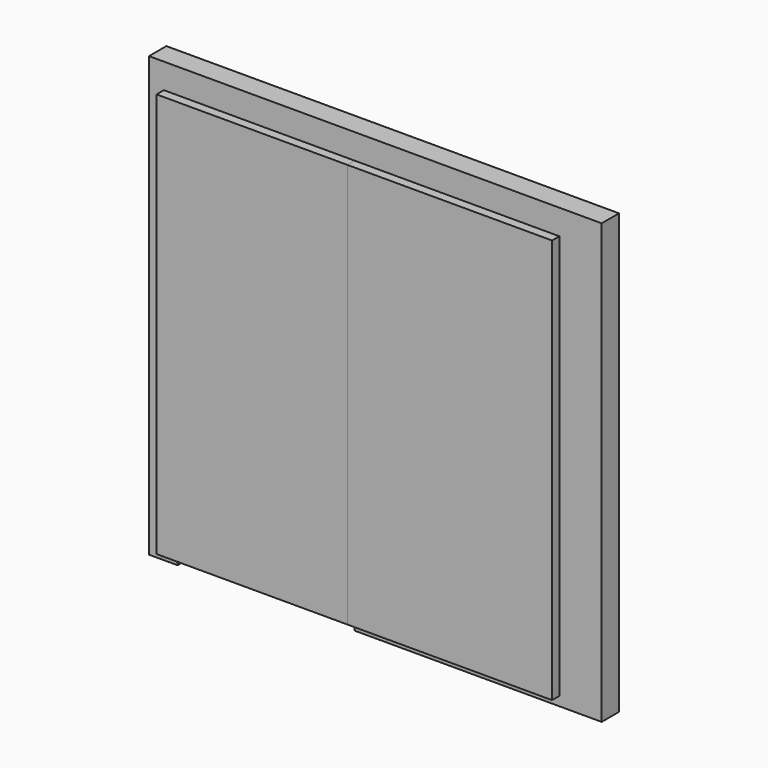
from build123d import *

# Parameters (mm, degrees)
F0_W     = 76.2
F0_H     = 127
F1_DEPTH = 120.65
F2_W     = 88.9
F2_H     = 2146.3
F2_W_2   = 177.8
F3_DEPTH = 120.65
F4_W     = 1136.65
F4_H     = 2247.9
F5_DEPTH = 50.8
F6_W     = 1136.65
F6_H     = 2247.9
F7_DEPTH = 50.8


with BuildPart() as f1:
    # F0 (on Front) → F1 (new body)
    with BuildSketch(Plane.XZ):
        Polygon((967.091514, 1224.801106), (-1547.508486, 1224.801106), (-1547.508486, -1213.598894), (-1477.658486, -1213.598894), (-1477.658486, 932.701106), (-226.708486, 932.701106), (-226.708486, -1213.598894), (967.091514, -1213.598894), align=None)
        with Locations((179.691514, -832.598894)):
            Rectangle(F0_W, F0_H, mode=Mode.SUBTRACT)
    extrude(amount=F1_DEPTH)


with BuildPart() as f3:
    # F2 (on Front) → F3 (new body, through all)
    with BuildSketch(Plane.XZ):
        with Locations((-1433.208486, -140.448894)):
            Rectangle(F2_W, F2_H)
        with Locations((-315.608486, -140.448894)):
            Rectangle(F2_W_2, F2_H)
    extrude(amount=F3_DEPTH)


with BuildPart() as f5:
    # F4 (on face) → F5 (new body)
    with BuildSketch(Plane.XZ.offset(120.65)):
        with Locations((-896.633486, -38.848894)):
            Rectangle(F4_W, F4_H)
    extrude(amount=F5_DEPTH)


with BuildPart() as f7:
    # F6 (on face) → F7 (new body)
    with BuildSketch(Plane.XZ.offset(120.65)):
        with Locations((163.816514, -38.848894)):
            Rectangle(F6_W, F6_H)
    extrude(amount=F7_DEPTH)


solid = Compound([f1.part, f3.part, f5.part, f7.part])
